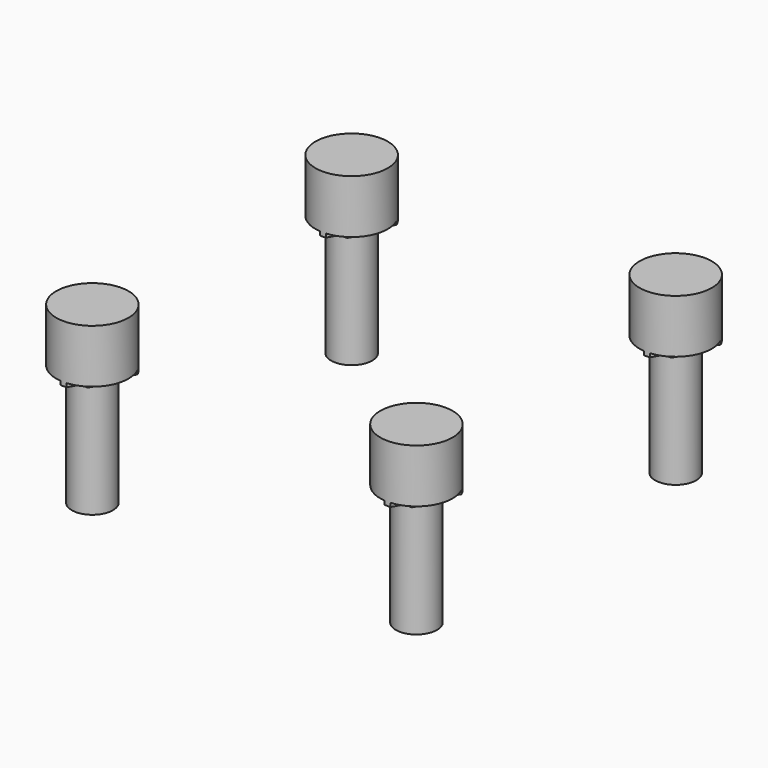
from build123d import *

# Parameters (mm, degrees)
B2HOLE00_HEAD_R               = 2.9
B2HOLE00_HEAD_DEPTH           = 4.3
B2HOLE00_SUP1AWAY_R           = 2.9
B2HOLE00_SUP1AWAY_DEPTH       = 3.6
B2HOLE00_SUP1_DEPTH           = 3.6
B2HOLE00_SUP1_PLACEMENT_ANGLE = 30
B2HOLE00_SUP2_DEPTH           = 3.9
B2HOLE00_SHANK_R              = 1.65
B2HOLE00_SHANK_DEPTH          = 14


with BuildPart() as b2hole00_head:
    # b2hole00_head → b2hole00_head (new body)
    with BuildSketch(Plane.XY.offset(8.7)):
        Circle(B2HOLE00_HEAD_R)
    extrude(amount=B2HOLE00_HEAD_DEPTH)


with BuildPart() as b2hole00_sup1away:
    # b2hole00_sup1away → b2hole00_sup1away (new body)
    with BuildSketch(Plane.XY.offset(8.4)):
        Circle(B2HOLE00_SUP1AWAY_R)
    extrude(amount=B2HOLE00_SUP1AWAY_DEPTH)


with BuildPart() as sup1cut004:
    # b2hole00_sup1 → b2hole00_sup1 (new body)
    with BuildSketch(Plane.XY):
        Polygon((3.3, 0), (-1.65, 2.857884), (-1.65, -2.857884), align=None)
    extrude(amount=B2HOLE00_SUP1_DEPTH)


with BuildPart() as sup1cut004_1:
    # b2hole00_sup1 placement: moved
    add(sup1cut004.part.moved(Location((0, 0, 8.4))).rotate(Axis((0, 0, 8.4), (0, 0, 1)), B2HOLE00_SUP1_PLACEMENT_ANGLE))

    # sup1cut004: intersect b2hole00_sup1away
    add(b2hole00_sup1away.part, mode=Mode.INTERSECT)


with BuildPart() as b2hole00_sup2:
    # b2hole00_sup2 → b2hole00_sup2 (new body)
    with BuildSketch(Plane.XY.offset(8.1)):
        Polygon((1.8975, 0), (0.94875, 1.643283), (-0.94875, 1.643283), (-1.8975, 0), (-0.94875, -1.643283), (0.94875, -1.643283), align=None)
    extrude(amount=B2HOLE00_SUP2_DEPTH)


with BuildPart() as b2hole00:
    # b2hole00_shank → b2hole00_shank (new body)
    with BuildSketch(Plane.XY.offset(-1)):
        Circle(B2HOLE00_SHANK_R)
    extrude(amount=B2HOLE00_SHANK_DEPTH)

    # b2hole00: union b2hole00_head, sup1cut004, b2hole00_sup2
    add(b2hole00_head.part)
    add(sup1cut004_1.part)
    add(b2hole00_sup2.part)


with BuildPart() as b2hole00_1:
    # b2hole00 placement: moved
    add(b2hole00.part.moved(Location((-13, -13, -3.5))))


with BuildPart() as b2hole01:
    # Clone032 base: copy of b2hole00
    add(b2hole00_1.part)


with BuildPart() as b2hole01_1:
    # Clone032 placement: moved
    add(b2hole01.part.moved(Location((0, 26, 0))))


with BuildPart() as b2hole10:
    # Clone033 base: copy of b2hole00
    add(b2hole00_1.part)


with BuildPart() as b2hole10_1:
    # Clone033 placement: moved
    add(b2hole10.part.moved(Location((26, 0, 0))))


with BuildPart() as b2hole11:
    # Clone034 base: copy of b2hole00
    add(b2hole00_1.part)


with BuildPart() as b2hole11_1:
    # Clone034 placement: moved
    add(b2hole11.part.moved(Location((26, 26, 0))))


with BuildPart() as b2holes:
    # b2holes base: copy of b2hole00
    add(b2hole00_1.part)

    # b2holes: union b2hole01, b2hole10, b2hole11
    add(b2hole01_1.part)
    add(b2hole10_1.part)
    add(b2hole11_1.part)


solid = b2holes.part
